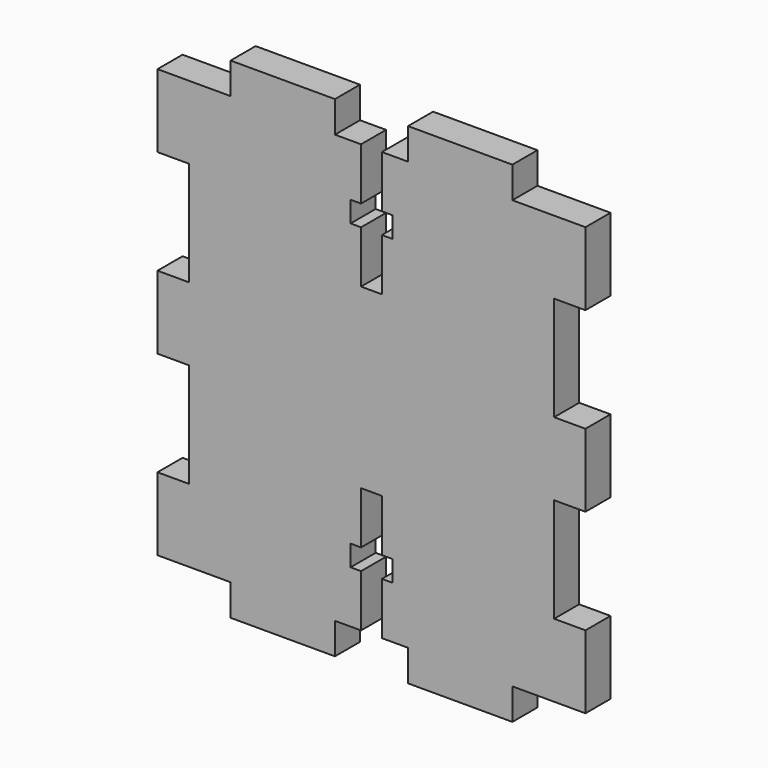
from build123d import *

# Parameters (mm, degrees)
F1_DEPTH = 3


with BuildPart() as f1:
    # F0 (on Front) → F1 (new body)
    with BuildSketch(Plane.XZ):
        Polygon((-4, 3), (0, 3), (3, 3), (3, 10), (0, 10), (0, 20), (3, 20), (3, 27), (0, 27), (0, 37), (3, 37), (3, 44), (-4, 44), (-4, 47), (-14, 47), (-14, 44), (-16.5, 44), (-16.5, 39), (-15.5, 39), (-15.5, 37), (-16.5, 37), (-16.5, 32), (-18.5, 32), (-18.5, 37), (-19.5, 37), (-19.5, 39), (-18.5, 39), (-18.5, 44), (-21, 44), (-21, 47), (-31, 47), (-31, 44), (-38, 44), (-38, 37), (-35, 37), (-35, 27), (-38, 27), (-38, 20), (-35, 20), (-35, 10), (-38, 10), (-38, 3), (-35, 3), (-31, 3), (-31, 0), (-21, 0), (-21, 3), (-18.5, 3), (-18.5, 8), (-19.5, 8), (-19.5, 10), (-18.5, 10), (-18.5, 15), (-16.5, 15), (-16.5, 10), (-15.5, 10), (-15.5, 8), (-16.5, 8), (-16.5, 3), (-14, 3), (-14, 0), (-4, 0), align=None)
    extrude(amount=F1_DEPTH)


solid = f1.part
